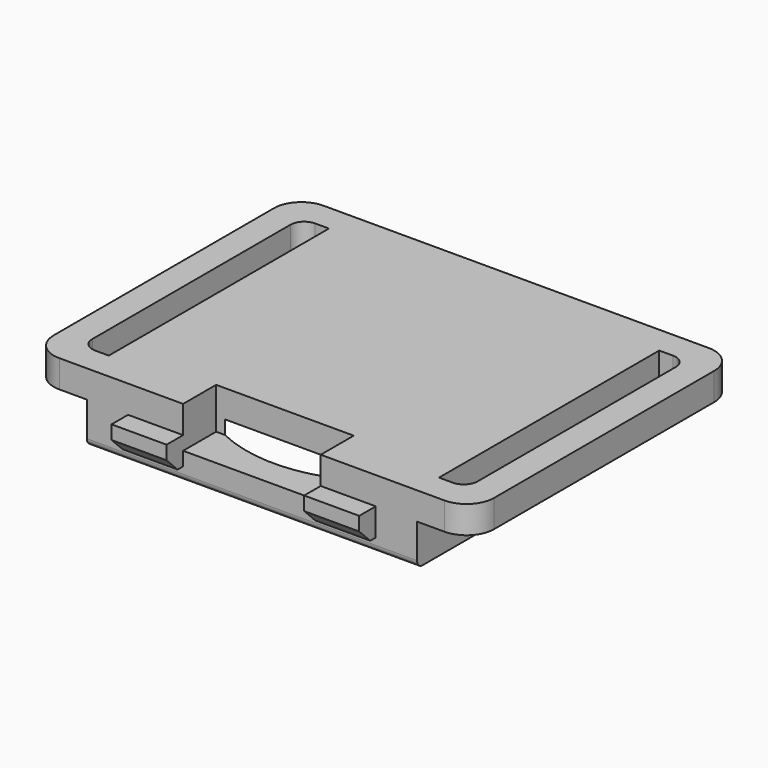
from build123d import *

# Parameters (mm, degrees)
F2_W      = 32
F2_H      = 24
F3_DEPTH  = 2
F0_W      = 24
F0_H      = 24
F4_DEPTH  = 3
F1_R      = 10
F5_DEPTH  = 3
F6_W      = 2
F6_H      = 20
F7_DEPTH  = 2
F8_R      = 2
F9_R      = 1
F10_W     = 10
F10_H     = 3
F11_DEPTH = 1
F12_DEPTH = 2
F13_W     = 4
F13_H     = 1.5
F14_DEPTH = 2
F15_SIZE  = 1
F16_R     = 0.5


with BuildPart() as f3:
    # F2 (on Top) → F3 (new body)
    with BuildSketch(Plane.XY):
        Rectangle(F2_W, F2_H)
    extrude(amount=F3_DEPTH)

    # F0 (on Top) → F4 (join)
    with BuildSketch(Plane.XY):
        Rectangle(F0_W, F0_H)
    extrude(amount=-F4_DEPTH)

    # F1 (on Top) → F5 (cut)
    with BuildSketch(Plane.XY):
        Circle(F1_R)
    extrude(amount=-F5_DEPTH, mode=Mode.SUBTRACT)

    # F6 (on Top) → F7 (cut)
    with BuildSketch(Plane.XY):
        with Locations((-13, 0)):
            Rectangle(F6_W, F6_H)
        with Locations((13, 0)):
            Rectangle(F6_W, F6_H)
    extrude(amount=F7_DEPTH, mode=Mode.SUBTRACT)

    # F8
    f8_edges = [f3.edges().sort_by_distance(p)[0] for p in [
        (16, -12, 1),
        (16, 12, 1),
        (-16, -12, 1),
        (-16, 12, 1),
    ]]
    fillet(f8_edges, radius=F8_R)

    # F9
    f9_edges = [f3.edges().sort_by_distance(p)[0] for p in [
        (-14, 10, 1),
        (14, 10, 1),
        (-14, -10, 1),
        (14, -10, 1),
    ]]
    fillet(f9_edges, radius=F9_R)

    # F10 (on Top) → F11 (cut)
    with BuildSketch(Plane.XY):
        with Locations((0, -10.5)):
            Rectangle(F10_W, F10_H)
    extrude(amount=-F11_DEPTH, mode=Mode.SUBTRACT)

    # F10 (on Top) → F12 (cut)
    with BuildSketch(Plane.XY):
        with Locations((0, -10.5)):
            Rectangle(F10_W, F10_H)
    extrude(amount=F12_DEPTH, mode=Mode.SUBTRACT)

    # F13 (on Top) → F14 (join)
    with BuildSketch(Plane.XY):
        with Locations((-7, -12.75)):
            Rectangle(F13_W, F13_H)
        with Locations((-7, 12.75)):
            Rectangle(F13_W, F13_H)
        with Locations((7, -12.75)):
            Rectangle(F13_W, F13_H)
        with Locations((7, 12.75)):
            Rectangle(F13_W, F13_H)
    extrude(amount=-F14_DEPTH)

    # F15
    f15_edges = [f3.edges().sort_by_distance(p)[0] for p in [
        (-7, -13.5, -2),
        (7, -13.5, -2),
        (7, 13.5, -2),
        (-7, 13.5, -2),
    ]]
    chamfer(f15_edges, length=F15_SIZE)

    # F16
    f16_edges = [f3.edges().sort_by_distance(p)[0] for p in [
        (0, -12, -3),
        (0, 12, -3),
    ]]
    fillet(f16_edges, radius=F16_R)


solid = f3.part
